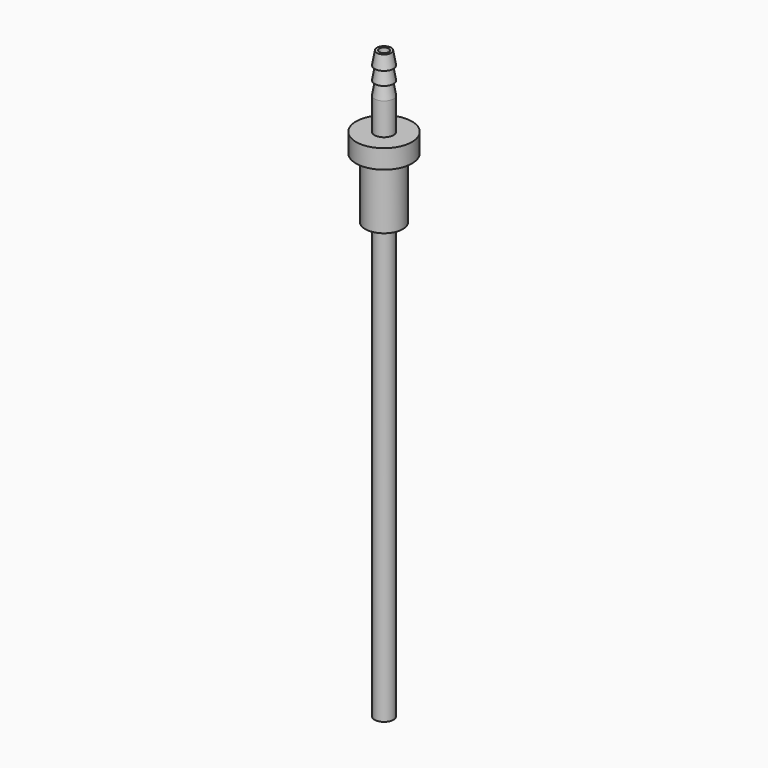
from build123d import *

# Parameters (mm, degrees)
F2_R     = 1
F3_DEPTH = 122.6322


with BuildPart() as f1:
    # F0 (on Front) → F1 (revolve)
    with BuildSketch(Plane.XZ):
        Polygon((1.495529, 54.883897), (0, 54.883897), (0, -67.747303), (1.9812, -67.747303), (1.9812, 23.235497), (3.937, 23.235497), (3.937, 35.935497), (5.842, 35.935497), (5.842, 39.897897), (1.9812, 39.897897), (1.9812, 46.577992), (1.495529, 49.346627), (1.9812, 49.346627), (1.495529, 52.115262), (1.9812, 52.115262), align=None)
    revolve(axis=Axis((0, 0, -6.431703), (0, 0, -1)))

    # F2 (on face) → F3 (cut, through all)
    with BuildSketch(Plane.XY.offset(54.883897)):
        Circle(F2_R)
    extrude(amount=-F3_DEPTH, mode=Mode.SUBTRACT)


solid = f1.part
